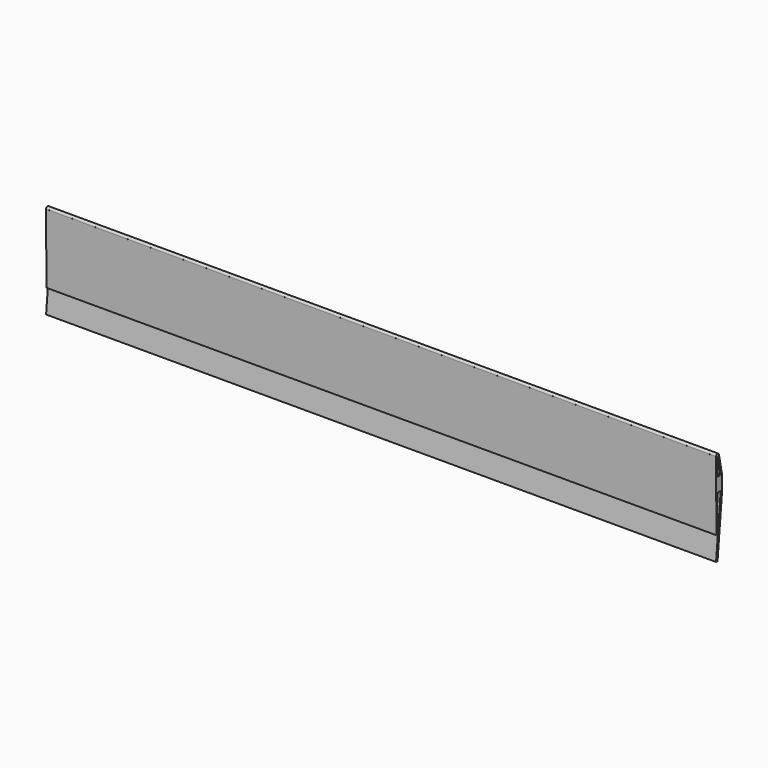
from build123d import *

# Parameters (mm, degrees)
F1_DEPTH = 723.9


with BuildPart() as f1:
    # F0 (on Right) → F1 (new body, symmetric)
    with BuildSketch(Plane.YZ):
        with BuildLine():
            Line((-15.8299067503, -142.596029821), (-11.8872214526, -143.0259399152))
            Line((-11.8872214526, -143.0259399152), (0, -18.7500006))
            Line((0, -18.7500006), (0, 18.7499994))
            Line((0, 18.7499994), (-7.9508239998, 58.7499994))
            ThreePointArc((-7.9508239998, 58.7499994), (-7.8920606963, 58.3597218998), (-7.8724079566, 57.9655348594))
            ThreePointArc((-7.8724079566, 57.9655348594), (-8.7715551646, 55.4519182766), (-11.0609952128, 54.0788930426))
            Line((-11.0609952128, 54.0788930426), (-3.9423238, 18.3539213456))
            Line((-3.9423238, 18.3539213456), (-11.835459815, 17.9655348594))
            Line((-11.835459815, 17.9655348594), (-11.835459815, 54.0024830011))
            ThreePointArc((-11.835459815, 54.0024830011), (-14.6385433533, 55.16401693), (-15.7985110549, 57.9677489647))
            Line((-15.7985110549, 57.9677489647), (-15.8207233853, 57.9655348594))
            Line((-15.8207233853, 57.9655348594), (-14.9394494697, -92.0344651406))
            Line((-14.9394494697, -92.0344651406), (-11.835459815, -12.0344651406))
            Line((-11.835459815, -12.0344651406), (-3.9423238, -12.0344651406))
            Line((-3.9423238, -12.0344651406), (-3.9423238, -18.5344211826))
            Line((-3.9423238, -18.5344211826), (-10.9737931654, -91.8188857231))
            Line((-10.9737931654, -91.8188857231), (-15.8299067503, -142.596029821))
        make_face()
        with BuildLine():
            ThreePointArc((-7.8724079566, 57.9655348594), (-7.8920606963, 58.3597218998), (-7.9508239998, 58.7499994))
            Line((-7.9508239998, 58.7499994), (-15.7985110549, 57.9677489647))
            ThreePointArc((-15.7985110549, 57.9677489647), (-14.6385433533, 55.16401693), (-11.835459815, 54.0024830011))
            Line((-11.835459815, 54.0024830011), (-11.835459815, 57.9655348594))
            Line((-11.835459815, 57.9655348594), (-11.0609952128, 54.0788930426))
            ThreePointArc((-11.0609952128, 54.0788930426), (-8.7715551646, 55.4519182766), (-7.8724079566, 57.9655348594))
        make_face()
        with BuildLine():
            Line((-15.7985110549, 57.9677489647), (-7.9508239998, 58.7499994))
            ThreePointArc((-7.9508239998, 58.7499994), (-12.2285452772, 61.9090439379), (-15.7985110549, 57.9677489647))
        make_face()
    extrude(amount=F1_DEPTH, both=True)


solid = f1.part
